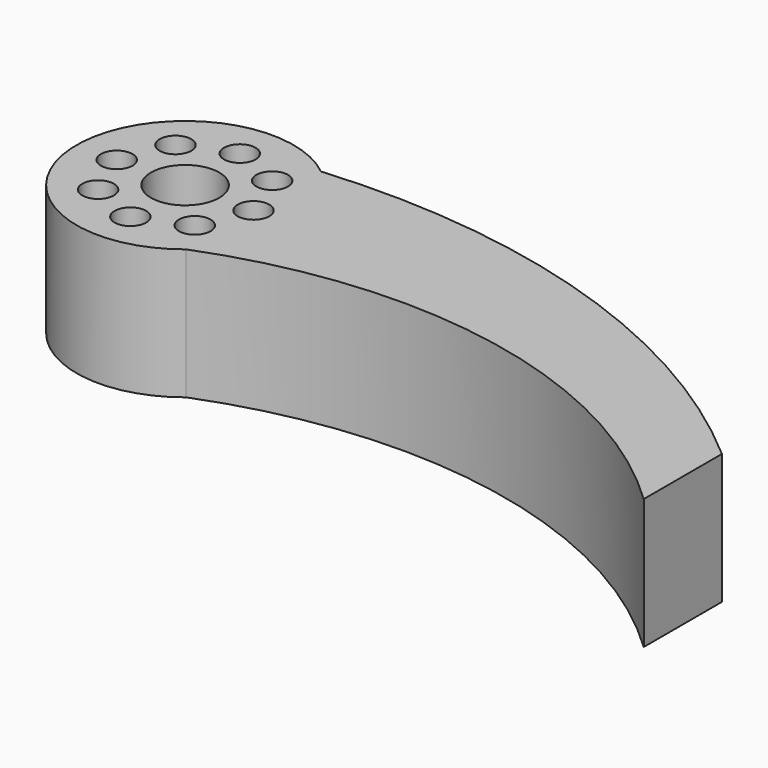
from build123d import *

# Parameters (mm, degrees)
F0_R     = 1.85
F0_R_2   = 4
F1_DEPTH = 15.24


with BuildPart() as f1:
    # F0 (on Top) → F1 (new body)
    with BuildSketch(Plane.XY):
        with BuildLine():
            ThreePointArc((8.002753, -9.861336), (11.465709, -5.461458), (12.7, 0))
            ThreePointArc((12.7, 0), (11.465709, 5.461458), (8.002753, 9.861336))
            ThreePointArc((8.002753, 9.861336), (-12.7, 0), (8.002753, -9.861336))
        make_face()
        with Locations((-5.656854, -5.656854)):
            Circle(F0_R, mode=Mode.SUBTRACT)
        with Locations((0, -8)):
            Circle(F0_R, mode=Mode.SUBTRACT)
        with Locations((5.656854, -5.656854)):
            Circle(F0_R, mode=Mode.SUBTRACT)
        with Locations((-8, 0)):
            Circle(F0_R, mode=Mode.SUBTRACT)
        Circle(F0_R_2, mode=Mode.SUBTRACT)
        with Locations((8, 0)):
            Circle(F0_R, mode=Mode.SUBTRACT)
        with Locations((-5.656854, 5.656854)):
            Circle(F0_R, mode=Mode.SUBTRACT)
        with Locations((5.656854, 5.656854)):
            Circle(F0_R, mode=Mode.SUBTRACT)
        with Locations((0, 8)):
            Circle(F0_R, mode=Mode.SUBTRACT)
        with BuildLine():
            ThreePointArc((8.002753, 9.861336), (11.465709, 5.461458), (12.7, 0))
            ThreePointArc((12.7, 0), (11.465709, -5.461458), (8.002753, -9.861336))
            ThreePointArc((8.002753, -9.861336), (41.571104, -6.817939), (71.502753, -22.316098))
            Line((71.502753, -22.316098), (71.502753, -10.886098))
            ThreePointArc((71.502753, -10.886098), (41.859937, 5.936909), (8.002753, 9.861336))
        make_face()
    extrude(amount=F1_DEPTH)


solid = f1.part
